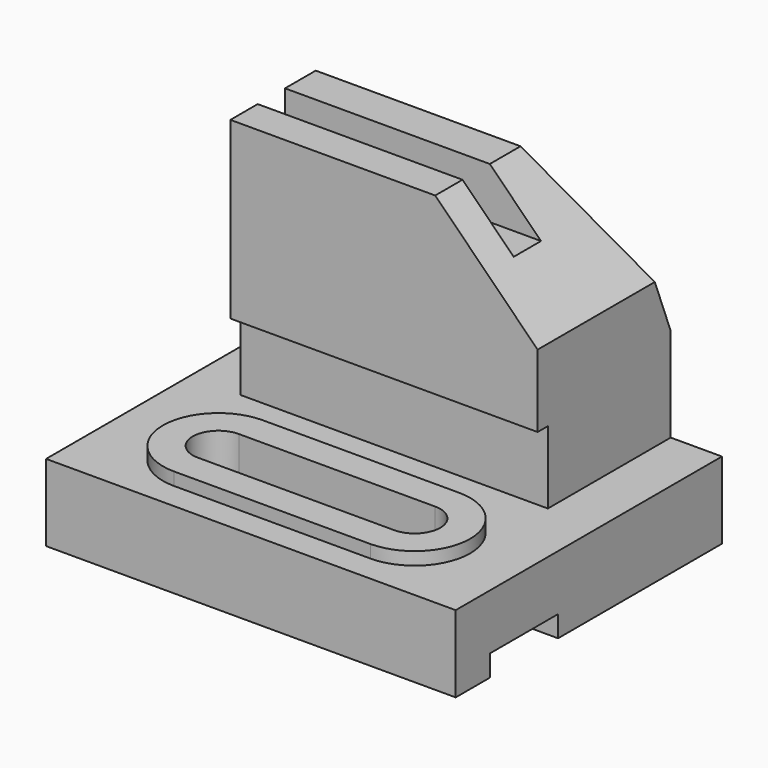
from build123d import *

# Parameters (mm, degrees)
F0_W      = 96
F0_H      = 78
F1_DEPTH  = 18
F2_W      = 72
F2_H      = 39
F3_DEPTH  = 58
F4_W      = 72
F4_H      = 8
F5_DEPTH  = 12
F6_W      = 96
F6_H      = 20
F7_DEPTH  = 5
F10_DEPTH = 39.001
F12_DEPTH = 3
F13_DEPTH = 18.001
F15_DEPTH = 84.001
F16_W     = 72
F16_H     = 17
F17_DEPTH = 3


with BuildPart() as f1:
    # F0 (on Top) → F1 (new body)
    with BuildSketch(Plane.XY):
        with Locations((48, 39)):
            Rectangle(F0_W, F0_H)
    extrude(amount=F1_DEPTH)

    # F2 (on face) → F3 (join)
    with BuildSketch(Plane.XY.offset(18)):
        with Locations((48, 58.5)):
            Rectangle(F2_W, F2_H)
    extrude(amount=F3_DEPTH)

    # F4 (on face) → F5 (cut)
    with BuildSketch(Plane.XY.offset(76)):
        with Locations((48, 51)):
            Rectangle(F4_W, F4_H)
    extrude(amount=-F5_DEPTH, mode=Mode.SUBTRACT)

    # F6 (on face) → F7 (cut)
    with BuildSketch(Plane(origin=(0, 0, 0), x_dir=(1, 0, 0), z_dir=(0, 0, -1))):
        with Locations((48, -20)):
            Rectangle(F6_W, F6_H)
    extrude(amount=-F7_DEPTH, mode=Mode.SUBTRACT)

    # F9 (on face) + F8 (on face) → F10 (cut, through all)
    with BuildSketch(Plane.XZ.offset(-39)):
        Polygon((84, 76), (60, 76), (84, 52), align=None)
    with BuildSketch(Plane(origin=(0, 78, 0), x_dir=(-1, 0, 0), z_dir=(0, 1, 0))):
        Polygon((-84, 18), (-96, 18), (-96, 0), (0, 0), (0, 18), (-12, 18), (-12, 76), (-84, 76), align=None)
    extrude(amount=-F10_DEPTH, dir=(0, -1, 0), mode=Mode.SUBTRACT)

    # F11 (on face) → F12 (join)
    with BuildSketch(Plane.XY.offset(18)):
        with BuildLine():
            ThreePointArc((25, 32.231967628), (12, 19.231967628), (25, 6.231967628))
            Line((25, 6.231967628), (71, 6.231967628))
            ThreePointArc((71, 6.231967628), (84, 19.231967628), (71, 32.231967628))
            Line((71, 32.231967628), (25, 32.231967628))
        make_face()
        with BuildLine():
            Line((71, 13.231967628), (25, 13.231967628))
            ThreePointArc((25, 13.231967628), (19, 19.231967628), (25, 25.231967628))
            Line((25, 25.231967628), (71, 25.231967628))
            ThreePointArc((71, 25.231967628), (77, 19.231967628), (71, 13.231967628))
        make_face(mode=Mode.SUBTRACT)
    extrude(amount=F12_DEPTH)

    # F13 (cut, through all): a face of the model
    f13_faces = [f1.faces().sort_by_distance(p)[0] for p in [
        (48, 19.231967628, 18),
    ]]
    extrude(f13_faces, amount=-F13_DEPTH, mode=Mode.SUBTRACT)

    # F14 (on face) → F15 (cut, through all)
    with BuildSketch(Plane(origin=(12, 0, 0), x_dir=(0, -1, 0), z_dir=(-1, 0, 0))):
        Polygon((-64, 76), (-78, 76), (-78, 40), align=None)
    extrude(amount=-F15_DEPTH, mode=Mode.SUBTRACT)

    # F16 (on face) → F17 (cut)
    with BuildSketch(Plane.XZ.offset(-39)):
        with Locations((48, 26.5)):
            Rectangle(F16_W, F16_H)
    extrude(amount=-F17_DEPTH, mode=Mode.SUBTRACT)


solid = f1.part
